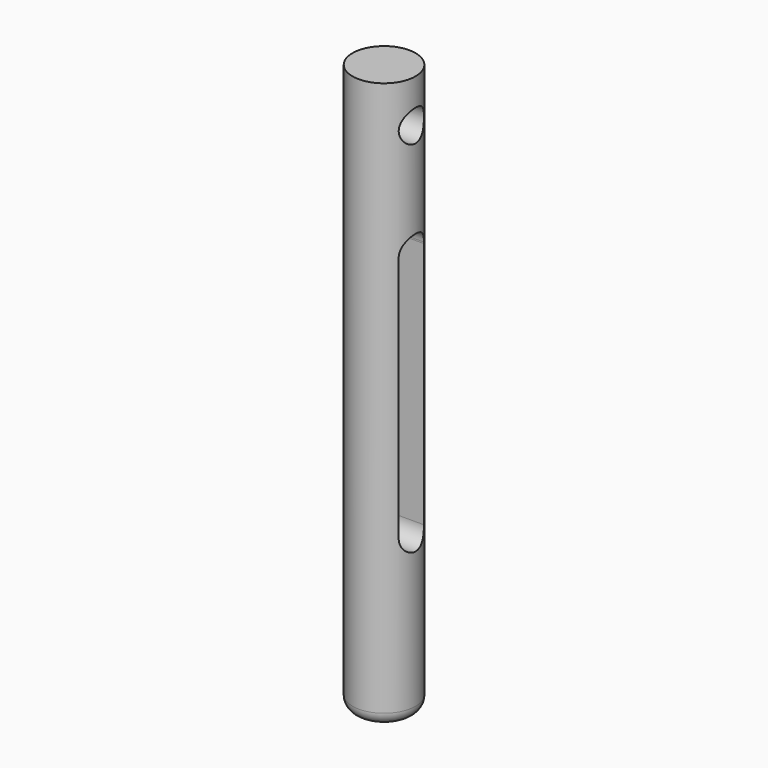
from build123d import *

# Parameters (mm, degrees)
F0_R     = 6.35
F1_DEPTH = 114.3
F2_R     = 2.54
F4_DEPTH = 12.7
F5_R     = 3.175
F6_DEPTH = 12.7


with BuildPart() as f1:
    # F0 (on Top) → F1 (new body)
    with BuildSketch(Plane.XY):
        Circle(F0_R)
    extrude(amount=F1_DEPTH)

    # F2
    f2_edges = [f1.edges().sort_by_distance(p)[0] for p in [
        (-6.35, 0, 0),
    ]]
    fillet(f2_edges, radius=F2_R)

    # F3 (on Right) → F4 (cut, symmetric)
    with BuildSketch(Plane.YZ):
        with BuildLine():
            Line((3.1722903245, 83.3166194451), (3.1723044783, 83.0546716063))
            ThreePointArc((3.1723044783, 83.0546716063), (3.1749999954, 83.1856456717), (3.1722903245, 83.3166194451))
        make_face()
        with BuildLine():
            Line((3.1749999954, 33.1680122005), (3.1723044783, 83.0546716063))
            Line((3.1723044783, 83.0546716063), (3.1722903245, 83.3166194451))
            ThreePointArc((3.1722903245, 83.3166194451), (-0.0080531428, 86.3604639044), (-3.1729147849, 83.3005252697))
            Line((-3.1729147849, 83.3005252697), (-3.1729147849, 83.0704229654))
            Line((-3.1729147849, 83.0704229654), (-3.1729147849, 33.2828917985))
            Line((-3.1729147849, 33.2828917985), (-3.1729147849, 33.0527894941))
            ThreePointArc((-3.1729147849, 33.0527894941), (0.0576207865, 29.9933635484), (3.1749999954, 33.1680122005))
        make_face()
        with BuildLine():
            Line((-3.1729147849, 83.0704229654), (-3.1729147849, 83.3005252697))
            ThreePointArc((-3.1729147849, 83.3005252697), (-3.175, 83.1854741175), (-3.1729147849, 83.0704229654))
        make_face()
        with BuildLine():
            ThreePointArc((-3.1729147849, 33.2828917985), (-3.175, 33.1678406463), (-3.1729147849, 33.0527894941))
            Line((-3.1729147849, 33.0527894941), (-3.1729147849, 33.2828917985))
        make_face()
    extrude(amount=F4_DEPTH, both=True, mode=Mode.SUBTRACT)

    # F5 (on Right) → F6 (cut, symmetric)
    with BuildSketch(Plane.YZ):
        with Locations((0, 105.5728718638)):
            Circle(F5_R)
    extrude(amount=F6_DEPTH, both=True, mode=Mode.SUBTRACT)


solid = f1.part
